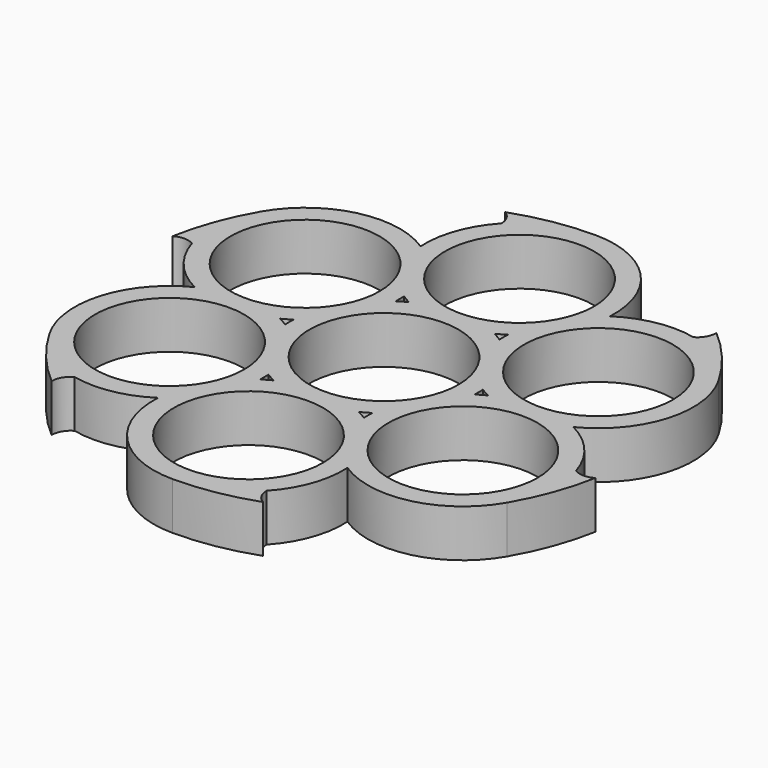
from build123d import *

# Parameters (mm, degrees)
F0_R     = 11
F1_DEPTH = 7


with BuildPart() as f1:
    # F0 (on Top) → F1 (new body)
    with BuildSketch(Plane.XY):
        with BuildLine():
            ThreePointArc((-10.281257, 34.502407), (-13.176009, 29.732102), (-13.977698, 24.210082))
            ThreePointArc((-13.977698, 24.210082), (-24.891005, 26.119838), (-33.774991, 19.5))
            ThreePointArc((-33.774991, 19.5), (-35.564126, 14.053951), (-35.02059, 8.347374))
            ThreePointArc((-35.02059, 8.347374), (-32.33676, 3.455292), (-27.955395, 0))
            ThreePointArc((-27.955395, 0), (-35.065946, -8.496324), (-33.774991, -19.5))
            ThreePointArc((-33.774991, -19.5), (-29.953142, -23.772461), (-24.739333, -26.155034))
            ThreePointArc((-24.739333, -26.155034), (-19.160751, -26.276809), (-13.977698, -24.210082))
            ThreePointArc((-13.977698, -24.210082), (-10.174941, -34.616162), (0, -39))
            ThreePointArc((0, -39), (5.610985, -37.826412), (10.281257, -34.502407))
            ThreePointArc((10.281257, -34.502407), (13.176009, -29.732102), (13.977698, -24.210082))
            ThreePointArc((13.977698, -24.210082), (24.891005, -26.119838), (33.774991, -19.5))
            ThreePointArc((33.774991, -19.5), (35.564126, -14.053951), (35.02059, -8.347374))
            ThreePointArc((35.02059, -8.347374), (32.33676, -3.455292), (27.955395, 0))
            ThreePointArc((27.955395, 0), (35.065946, 8.496324), (33.774991, 19.5))
            ThreePointArc((33.774991, 19.5), (29.953142, 23.772461), (24.739333, 26.155034))
            ThreePointArc((24.739333, 26.155034), (19.160751, 26.276809), (13.977698, 24.210082))
            ThreePointArc((13.977698, 24.210082), (10.174941, 34.616162), (0, 39))
            ThreePointArc((0, 39), (-5.610985, 37.826412), (-10.281257, 34.502407))
        make_face()
        with Locations((-21.650635, -12.5)):
            Circle(F0_R, mode=Mode.SUBTRACT)
        with BuildLine():
            ThreePointArc((-6.30476, -12.5), (-7, -12.875644), (-7.672937, -13.289918))
            ThreePointArc((-7.672937, -13.289918), (-7.650635, -12.5), (-7.672937, -11.710082))
            ThreePointArc((-7.672937, -11.710082), (-7, -12.124356), (-6.30476, -12.5))
        make_face(mode=Mode.SUBTRACT)
        with Locations((0, -25)):
            Circle(F0_R, mode=Mode.SUBTRACT)
        with BuildLine():
            ThreePointArc((7.672937, -11.710082), (7.650635, -12.5), (7.672937, -13.289918))
            ThreePointArc((7.672937, -13.289918), (7, -12.875644), (6.30476, -12.5))
            ThreePointArc((6.30476, -12.5), (7, -12.124356), (7.672937, -11.710082))
        make_face(mode=Mode.SUBTRACT)
        with Locations((21.650635, -12.5)):
            Circle(F0_R, mode=Mode.SUBTRACT)
        with Locations((-21.650635, 12.5)):
            Circle(F0_R, mode=Mode.SUBTRACT)
        with BuildLine():
            ThreePointArc((-15.345875, 0), (-14.650635, 0.375644), (-13.977698, 0.789918))
            ThreePointArc((-13.977698, 0.789918), (-14, 0), (-13.977698, -0.789918))
            ThreePointArc((-13.977698, -0.789918), (-14.650635, -0.375644), (-15.345875, 0))
        make_face(mode=Mode.SUBTRACT)
        with BuildLine():
            ThreePointArc((-7.672937, 11.710082), (-7.650635, 12.5), (-7.672937, 13.289918))
            ThreePointArc((-7.672937, 13.289918), (-7, 12.875644), (-6.30476, 12.5))
            ThreePointArc((-6.30476, 12.5), (-7, 12.124356), (-7.672937, 11.710082))
        make_face(mode=Mode.SUBTRACT)
        Circle(F0_R, mode=Mode.SUBTRACT)
        with BuildLine():
            ThreePointArc((13.977698, -0.789918), (14, 0), (13.977698, 0.789918))
            ThreePointArc((13.977698, 0.789918), (14.650635, 0.375644), (15.345875, 0))
            ThreePointArc((15.345875, 0), (14.650635, -0.375644), (13.977698, -0.789918))
        make_face(mode=Mode.SUBTRACT)
        with BuildLine():
            ThreePointArc((6.30476, 12.5), (7, 12.875644), (7.672937, 13.289918))
            ThreePointArc((7.672937, 13.289918), (7.650635, 12.5), (7.672937, 11.710082))
            ThreePointArc((7.672937, 11.710082), (7, 12.124356), (6.30476, 12.5))
        make_face(mode=Mode.SUBTRACT)
        with Locations((21.650635, 12.5)):
            Circle(F0_R, mode=Mode.SUBTRACT)
        with Locations((0, 25)):
            Circle(F0_R, mode=Mode.SUBTRACT)
        with BuildLine():
            ThreePointArc((-35.02059, 8.347374), (-35.564126, 14.053951), (-33.774991, 19.5))
            ThreePointArc((-33.774991, 19.5), (-36.303554, 14.098273), (-37.869486, 8.343263))
            ThreePointArc((-37.869486, 8.343263), (-36.4456, 8.734654), (-35.02059, 8.347374))
        make_face()
        with BuildLine():
            ThreePointArc((-11.709265, 36.967568), (-10.658367, 35.930142), (-10.281257, 34.502407))
            ThreePointArc((-10.281257, 34.502407), (-5.610985, 37.826412), (0, 39))
            ThreePointArc((0, 39), (-5.942314, 38.488936), (-11.709265, 36.967568))
        make_face()
        with BuildLine():
            ThreePointArc((-24.739333, -26.155034), (-29.953142, -23.772461), (-33.774991, -19.5))
            ThreePointArc((-33.774991, -19.5), (-30.36124, -24.390663), (-26.16022, -28.624305))
            ThreePointArc((-26.16022, -28.624305), (-25.787232, -27.195488), (-24.739333, -26.155034))
        make_face()
        with BuildLine():
            ThreePointArc((26.16022, 28.624305), (25.787232, 27.195488), (24.739333, 26.155034))
            ThreePointArc((24.739333, 26.155034), (29.953142, 23.772461), (33.774991, 19.5))
            ThreePointArc((33.774991, 19.5), (30.36124, 24.390663), (26.16022, 28.624305))
        make_face()
        with BuildLine():
            ThreePointArc((10.281257, -34.502407), (5.610985, -37.826412), (0, -39))
            ThreePointArc((0, -39), (5.942314, -38.488936), (11.709265, -36.967568))
            ThreePointArc((11.709265, -36.967568), (10.658367, -35.930142), (10.281257, -34.502407))
        make_face()
        with BuildLine():
            ThreePointArc((37.869486, -8.343263), (36.4456, -8.734654), (35.02059, -8.347374))
            ThreePointArc((35.02059, -8.347374), (35.564126, -14.053951), (33.774991, -19.5))
            ThreePointArc((33.774991, -19.5), (36.303554, -14.098273), (37.869486, -8.343263))
        make_face()
    extrude(amount=F1_DEPTH)


solid = f1.part
